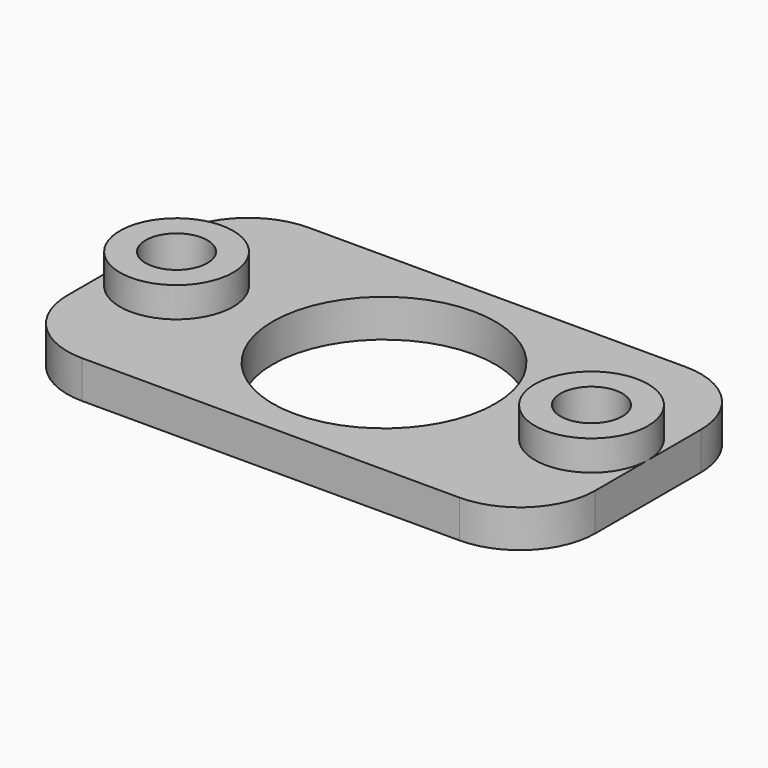
from build123d import *

# Parameters (mm, degrees)
SKETCH_W      = 28
SKETCH_H      = 15
SKETCH_R      = 5.9
SKETCH_R_2    = 1.64
PAD_DEPTH     = 2
SKETCH001_R   = 3
SKETCH001_R_2 = 1.64
PAD001_DEPTH  = 1.6
FILLET_R      = 4


with BuildPart() as part:
    # Sketch → Pad (new body)
    with BuildSketch(Plane.XY):
        Rectangle(SKETCH_W, SKETCH_H)
        Circle(SKETCH_R, mode=Mode.SUBTRACT)
        with Locations((-11, 0)):
            Circle(SKETCH_R_2, mode=Mode.SUBTRACT)
        with Locations((11, 0)):
            Circle(SKETCH_R_2, mode=Mode.SUBTRACT)
    extrude(amount=PAD_DEPTH)

    # Sketch001 (on Face9 of Pad) → Pad001 (join)
    with BuildSketch(Plane.XY.offset(2)):
        with Locations((-11, 0)):
            Circle(SKETCH001_R)
        with Locations((-11, 0)):
            Circle(SKETCH001_R_2, mode=Mode.SUBTRACT)
        with Locations((11, 0)):
            Circle(SKETCH001_R)
        with Locations((11, 0)):
            Circle(SKETCH001_R_2, mode=Mode.SUBTRACT)
    extrude(amount=PAD001_DEPTH)

    # Fillet
    fillet_edges = [part.edges().sort_by_distance(p)[0] for p in [
        (14, -7.5, 1),
        (14, 7.5, 1),
        (-14, 7.5, 1),
        (-14, -7.5, 1),
    ]]
    fillet(fillet_edges, radius=FILLET_R)


solid = part.part
